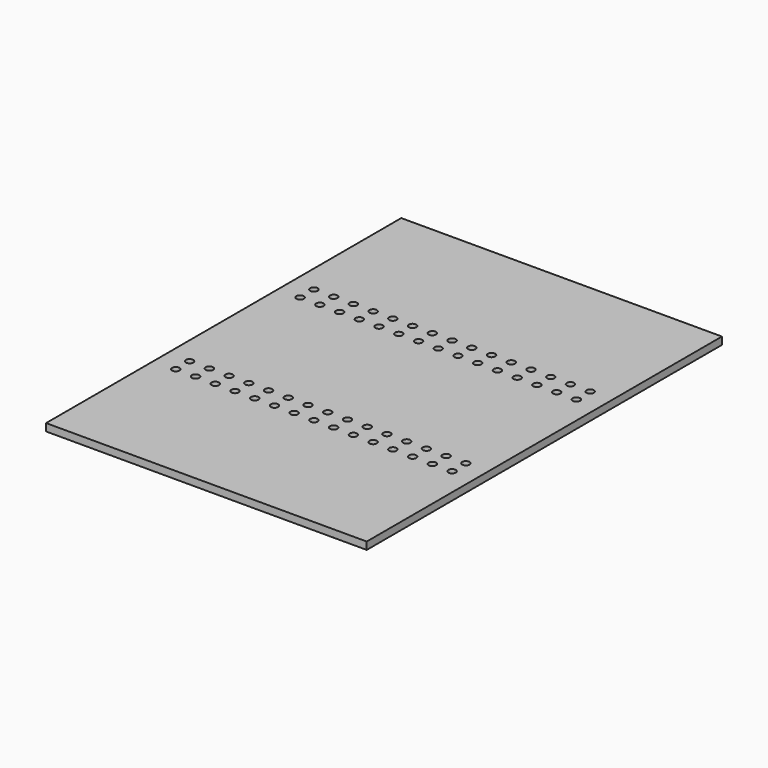
from build123d import *

# Parameters (mm, degrees)
F0_W     = 130
F0_H     = 180
F0_R     = 1.5
F1_DEPTH = 3


with BuildPart() as f1:
    # F0 (on Top) → F1 (new body)
    with BuildSketch(Plane.XY):
        with Locations((-81.050769, 20.358638)):
            Rectangle(F0_W, F0_H)
        with Locations((-137.050769, -15.141362)):
            Circle(F0_R, mode=Mode.SUBTRACT)
        with Locations((-129.050769, -15.141362)):
            Circle(F0_R, mode=Mode.SUBTRACT)
        with Locations((-121.050769, -15.141362)):
            Circle(F0_R, mode=Mode.SUBTRACT)
        with Locations((-113.050769, -15.141362)):
            Circle(F0_R, mode=Mode.SUBTRACT)
        with Locations((-137.050769, -8.141362)):
            Circle(F0_R, mode=Mode.SUBTRACT)
        with Locations((-129.050769, -8.141362)):
            Circle(F0_R, mode=Mode.SUBTRACT)
        with Locations((-121.050769, -8.141362)):
            Circle(F0_R, mode=Mode.SUBTRACT)
        with Locations((-113.050769, -8.141362)):
            Circle(F0_R, mode=Mode.SUBTRACT)
        with Locations((-105.050769, -15.141362)):
            Circle(F0_R, mode=Mode.SUBTRACT)
        with Locations((-97.050769, -15.141362)):
            Circle(F0_R, mode=Mode.SUBTRACT)
        with Locations((-89.050769, -15.141362)):
            Circle(F0_R, mode=Mode.SUBTRACT)
        with Locations((-81.050769, -15.141362)):
            Circle(F0_R, mode=Mode.SUBTRACT)
        with Locations((-105.050769, -8.141362)):
            Circle(F0_R, mode=Mode.SUBTRACT)
        with Locations((-97.050769, -8.141362)):
            Circle(F0_R, mode=Mode.SUBTRACT)
        with Locations((-89.050769, -8.141362)):
            Circle(F0_R, mode=Mode.SUBTRACT)
        with Locations((-81.050769, -8.141362)):
            Circle(F0_R, mode=Mode.SUBTRACT)
        with Locations((-73.050769, -15.141362)):
            Circle(F0_R, mode=Mode.SUBTRACT)
        with Locations((-65.050769, -15.141362)):
            Circle(F0_R, mode=Mode.SUBTRACT)
        with Locations((-57.050769, -15.141362)):
            Circle(F0_R, mode=Mode.SUBTRACT)
        with Locations((-49.050769, -15.141362)):
            Circle(F0_R, mode=Mode.SUBTRACT)
        with Locations((-41.050769, -15.141362)):
            Circle(F0_R, mode=Mode.SUBTRACT)
        with Locations((-73.050769, -8.141362)):
            Circle(F0_R, mode=Mode.SUBTRACT)
        with Locations((-65.050769, -8.141362)):
            Circle(F0_R, mode=Mode.SUBTRACT)
        with Locations((-57.050769, -8.141362)):
            Circle(F0_R, mode=Mode.SUBTRACT)
        with Locations((-49.050769, -8.141362)):
            Circle(F0_R, mode=Mode.SUBTRACT)
        with Locations((-41.050769, -8.141362)):
            Circle(F0_R, mode=Mode.SUBTRACT)
        with Locations((-33.050769, -15.141362)):
            Circle(F0_R, mode=Mode.SUBTRACT)
        with Locations((-25.050769, -15.141362)):
            Circle(F0_R, mode=Mode.SUBTRACT)
        with Locations((-33.050769, -8.141362)):
            Circle(F0_R, mode=Mode.SUBTRACT)
        with Locations((-25.050769, -8.141362)):
            Circle(F0_R, mode=Mode.SUBTRACT)
        with Locations((-137.050769, 47.858638)):
            Circle(F0_R, mode=Mode.SUBTRACT)
        with Locations((-129.050769, 47.858638)):
            Circle(F0_R, mode=Mode.SUBTRACT)
        with Locations((-121.050769, 47.858638)):
            Circle(F0_R, mode=Mode.SUBTRACT)
        with Locations((-113.050769, 47.858638)):
            Circle(F0_R, mode=Mode.SUBTRACT)
        with Locations((-137.050769, 54.858638)):
            Circle(F0_R, mode=Mode.SUBTRACT)
        with Locations((-129.050769, 54.858638)):
            Circle(F0_R, mode=Mode.SUBTRACT)
        with Locations((-121.050769, 54.858638)):
            Circle(F0_R, mode=Mode.SUBTRACT)
        with Locations((-113.050769, 54.858638)):
            Circle(F0_R, mode=Mode.SUBTRACT)
        with Locations((-105.050769, 47.858638)):
            Circle(F0_R, mode=Mode.SUBTRACT)
        with Locations((-97.050769, 47.858638)):
            Circle(F0_R, mode=Mode.SUBTRACT)
        with Locations((-89.050769, 47.858638)):
            Circle(F0_R, mode=Mode.SUBTRACT)
        with Locations((-81.050769, 47.858638)):
            Circle(F0_R, mode=Mode.SUBTRACT)
        with Locations((-105.050769, 54.858638)):
            Circle(F0_R, mode=Mode.SUBTRACT)
        with Locations((-97.050769, 54.858638)):
            Circle(F0_R, mode=Mode.SUBTRACT)
        with Locations((-89.050769, 54.858638)):
            Circle(F0_R, mode=Mode.SUBTRACT)
        with Locations((-81.050769, 54.858638)):
            Circle(F0_R, mode=Mode.SUBTRACT)
        with Locations((-73.050769, 47.858638)):
            Circle(F0_R, mode=Mode.SUBTRACT)
        with Locations((-65.050769, 47.858638)):
            Circle(F0_R, mode=Mode.SUBTRACT)
        with Locations((-57.050769, 47.858638)):
            Circle(F0_R, mode=Mode.SUBTRACT)
        with Locations((-49.050769, 47.858638)):
            Circle(F0_R, mode=Mode.SUBTRACT)
        with Locations((-41.050769, 47.858638)):
            Circle(F0_R, mode=Mode.SUBTRACT)
        with Locations((-73.050769, 54.858638)):
            Circle(F0_R, mode=Mode.SUBTRACT)
        with Locations((-65.050769, 54.858638)):
            Circle(F0_R, mode=Mode.SUBTRACT)
        with Locations((-57.050769, 54.858638)):
            Circle(F0_R, mode=Mode.SUBTRACT)
        with Locations((-49.050769, 54.858638)):
            Circle(F0_R, mode=Mode.SUBTRACT)
        with Locations((-41.050769, 54.858638)):
            Circle(F0_R, mode=Mode.SUBTRACT)
        with Locations((-33.050769, 47.858638)):
            Circle(F0_R, mode=Mode.SUBTRACT)
        with Locations((-25.050769, 47.858638)):
            Circle(F0_R, mode=Mode.SUBTRACT)
        with Locations((-33.050769, 54.858638)):
            Circle(F0_R, mode=Mode.SUBTRACT)
        with Locations((-25.050769, 54.858638)):
            Circle(F0_R, mode=Mode.SUBTRACT)
    extrude(amount=F1_DEPTH)


solid = f1.part
